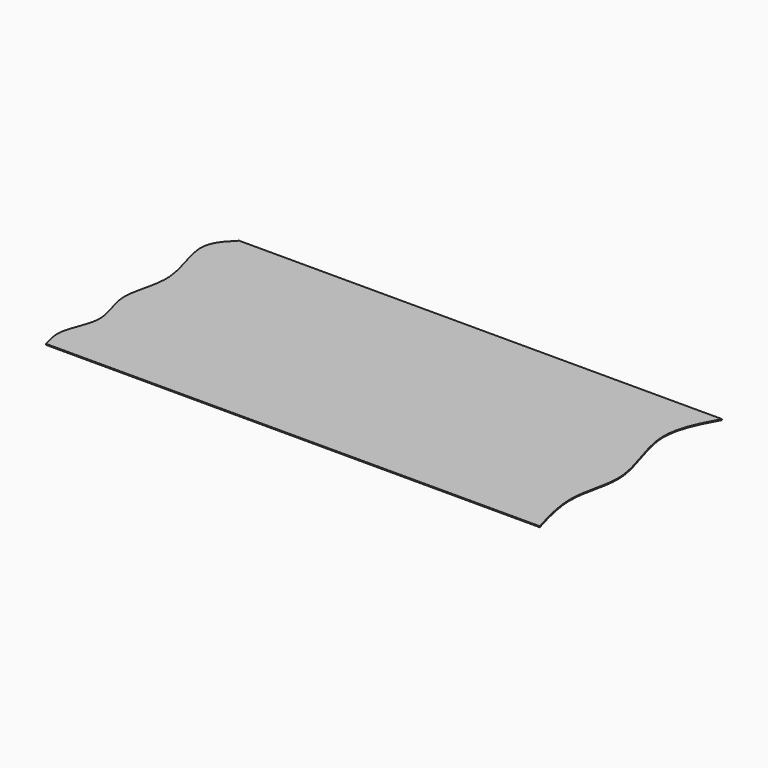
from build123d import *

# Parameters (mm, degrees)
F1_DEPTH = 6.35


with BuildPart() as f1:
    # F0 (on Top) → F1 (new body)
    with BuildSketch(Plane.XY):
        with BuildLine():
            Line((1641.7347192764, 762), (-1551.5294075012, 762))
            add(Edge.make_bspline(
                [(-1551.5294075012, 762), (-1601.1661788814, 712.4448314587), (-1719.1941477118, 594.6109005776), (-1516.3771886342, 208.3732745987), (-1676.7526078951, -101.3201350636), (-1519.3915507051, -370.2835162057), (-1659.3321142856, -596.403500655), (-1624.8874274875, -710.3194094237), (-1609.2607975006, -762)],
                knots=[0, 0, 0, 0, 0.1473703635, 0.3504221606, 0.5372330822, 0.708525815, 0.8677659847, 1, 1, 1, 1], degree=3))
            Line((-1609.2607975006, -762), (1656.1675071716, -762))
            add(Edge.make_bspline(
                [(1641.7347192764, 762), (1581.3114629311, 650.4757152248), (1452.583122873, 412.8795159532), (1699.5022728315, -52.4563342817), (1549.4956548549, -392.4921185865), (1620.1705659762, -637.3077481115), (1656.1675071716, -762)],
                knots=[0, 0, 0, 0, 0.2441016618, 0.5200448243, 0.7555438279, 1, 1, 1, 1], degree=3))
        make_face()
    extrude(amount=F1_DEPTH)


solid = f1.part
